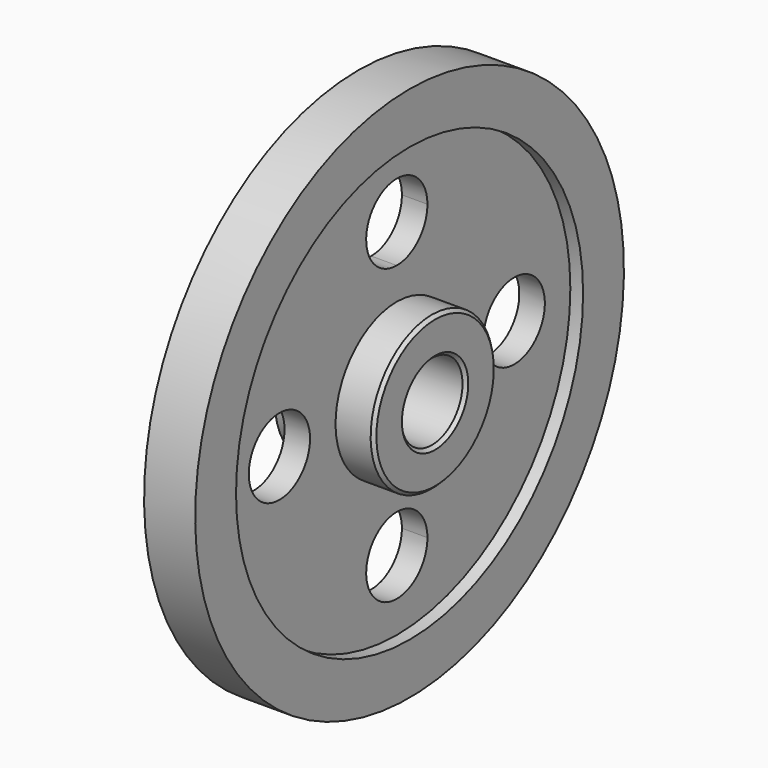
from build123d import *

# Parameters (mm, degrees)
F2_R     = 19.05
F3_DEPTH = 25.4
F4_SIZE  = 1.5875
F5_SIZE  = 1.5875


with BuildPart() as f1:
    # F0 (on Front) → F1 (revolve)
    with BuildSketch(Plane.XZ):
        Polygon((0, 107.95), (6.35, 107.95), (12.7, 107.95), (12.7, 120.65), (12.7, 133.35), (6.35, 133.35), (0, 133.35), (-12.741878, 133.35), (-12.741878, 107.95), (-6.35, 107.95), align=None)
        Polygon((-25.4, 19.05), (0, 19.05), (25.4, 19.05), (25.4, 38.1), (6.35, 38.1), (6.35, 107.95), (0, 107.95), (-6.35, 107.95), (-6.35, 38.1), (-25.4, 38.1), align=None)
    revolve(axis=Axis((38.116653, 0, 0), (1, 0, 0)))

    # F2 (on face) → F3 (cut)
    with BuildSketch(Plane.YZ.offset(6.35)):
        with Locations((-73.025, 0)):
            Circle(F2_R)
        with BuildLine():
            ThreePointArc((19.05, 73.025), (-13.470384, 86.495384), (0, 53.975))
            ThreePointArc((0, 53.975), (13.470384, 59.554616), (19.05, 73.025))
        make_face()
        with BuildLine():
            ThreePointArc((92.075, 0), (73.025, 19.05), (53.975, 0))
            ThreePointArc((53.975, 0), (73.025, -19.05), (92.075, 0))
        make_face()
        with BuildLine():
            ThreePointArc((19.05, -73.025), (13.470384, -59.554616), (0, -53.975))
            ThreePointArc((0, -53.975), (-13.470384, -86.495384), (19.05, -73.025))
        make_face()
    extrude(amount=-F3_DEPTH, mode=Mode.SUBTRACT)

    # F4
    f4_edges = [f1.edges().sort_by_distance(p)[0] for p in [
        (25.4, 0, -38.1),
        (25.4, 0, -19.05),
    ]]
    chamfer(f4_edges, length=F4_SIZE)

    # F5
    f5_edges = [f1.edges().sort_by_distance(p)[0] for p in [
        (-25.4, 0, -38.1),
        (-25.4, 0, -19.05),
    ]]
    chamfer(f5_edges, length=F5_SIZE)


solid = f1.part
